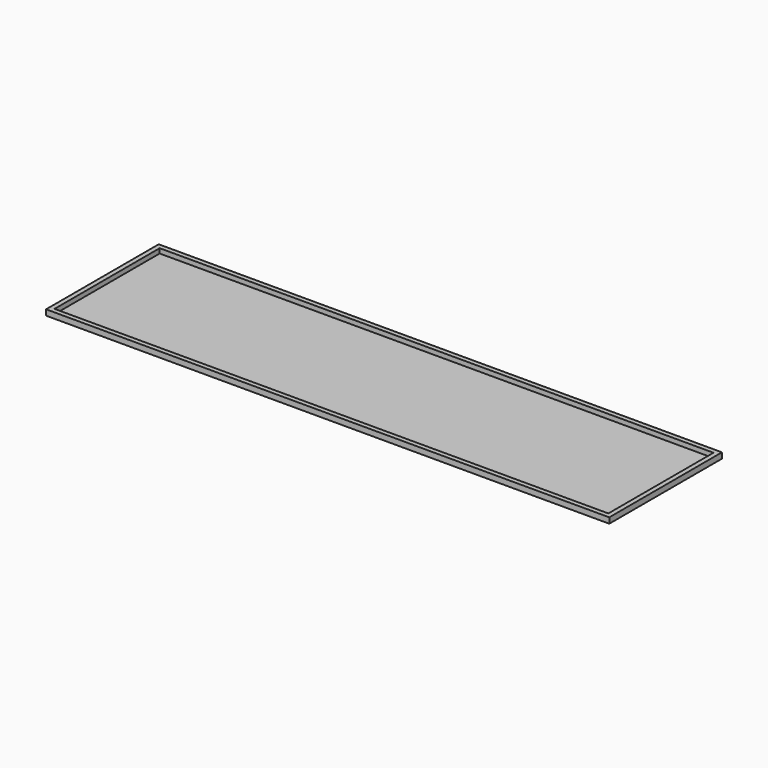
from build123d import *

# Parameters (mm, degrees)
F0_W     = 600
F0_H     = 150
F0_W_2   = 590
F0_H_2   = 140
F1_DEPTH = 5
F2_W     = 600
F2_H     = 150
F3_DEPTH = 1
F4_DEPTH = 1


with BuildPart() as f1:
    # F0 (on Top) → F1 (new body)
    with BuildSketch(Plane.XY):
        with Locations((11.197913, -43.259316)):
            Rectangle(F0_W, F0_H)
        with Locations((11.197913, -43.259316)):
            Rectangle(F0_W_2, F0_H_2, mode=Mode.SUBTRACT)
    extrude(amount=F1_DEPTH)

    # F2 (on face) → F3 (join)
    with BuildSketch(Plane(origin=(0, 0, 0), x_dir=(1, 0, 0), z_dir=(0, 0, -1))):
        with Locations((11.197913, 43.259316)):
            Rectangle(F2_W, F2_H)
    extrude(amount=F3_DEPTH)

    # F0 (on Top) → F4 (join)
    with BuildSketch(Plane.XY):
        with Locations((11.197913, -43.259316)):
            Rectangle(F0_W, F0_H)
        with Locations((11.197913, -43.259316)):
            Rectangle(F0_W_2, F0_H_2, mode=Mode.SUBTRACT)
    extrude(amount=F4_DEPTH)


solid = f1.part
